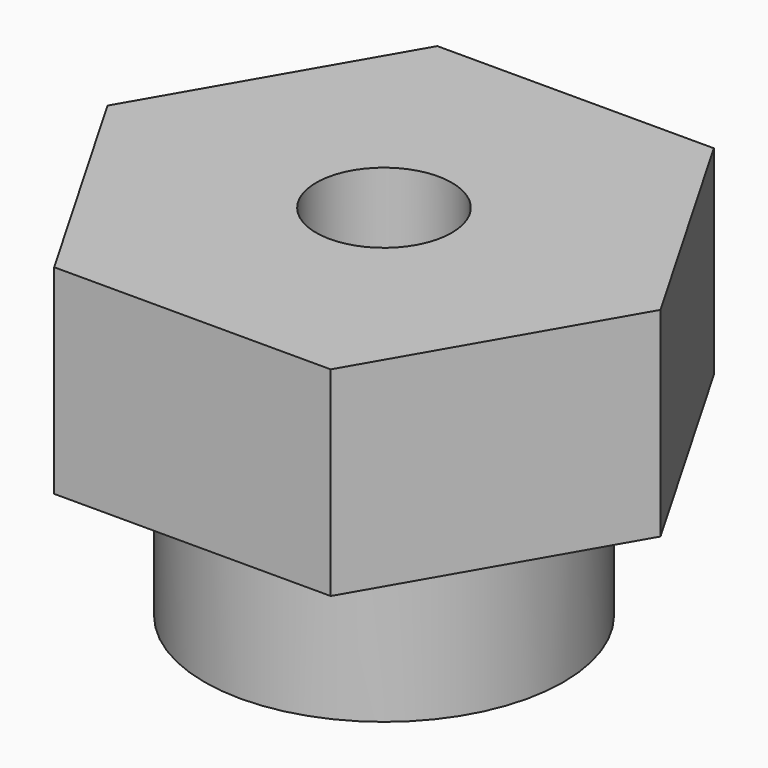
from build123d import *

# Parameters (mm, degrees)
F1_DEPTH = 10
F2_R     = 9
F3_DEPTH = 8
F4_R     = 3.4
F5_DEPTH = 25


with BuildPart() as f1:
    # F0 (on Top) → F1 (new body)
    with BuildSketch(Plane.XY):
        Polygon((6.928203, 12), (-6.928203, 12), (-13.856406, 0), (-6.928203, -12), (6.928203, -12), (13.856406, 0), align=None)
    extrude(amount=F1_DEPTH)

    # F2 (on face) → F3 (join)
    with BuildSketch(Plane(origin=(0, 0, 0), x_dir=(1, 0, 0), z_dir=(0, 0, -1))):
        Circle(F2_R)
    extrude(amount=F3_DEPTH)

    # F4 (on face) → F5 (cut)
    with BuildSketch(Plane.XY.offset(10)):
        Circle(F4_R)
    extrude(amount=-F5_DEPTH, mode=Mode.SUBTRACT)


solid = f1.part
